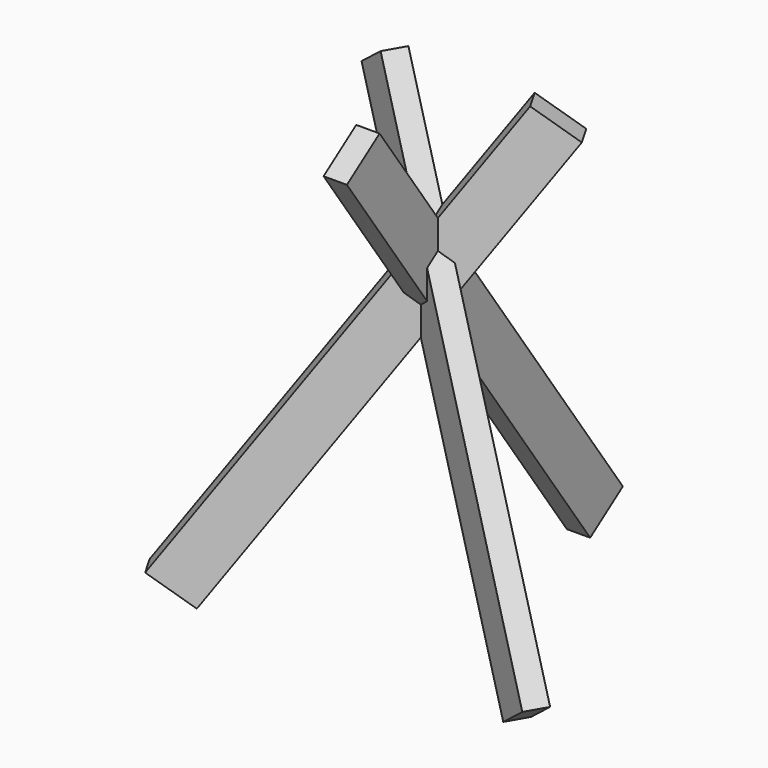
from build123d import *

# Parameters (mm, degrees)
F1_DEPTH = 1000
F2_ANGLE = 35
F3_ANGLE = -35
F4_ANGLE = 35


with BuildPart() as f1:
    # F0 (on Top) → F1 (new body)
    with BuildSketch(Plane.XY):
        Polygon((278, 519.6152422707), (300, 519.6152422707), (322, 519.6152422707), (322, 613.6152422707), (278, 613.6152422707), align=None)
    extrude(amount=F1_DEPTH)


with BuildPart() as f1b:
    # F0 (on Top) → F1, piece 2 (new body)
    with BuildSketch(Plane.XY):
        Polygon((611, 19.0525588833), (600, 0), (589, -19.0525588833), (670.4063879557, -66.0525588833), (692.4063879557, -27.9474411167), align=None)
    extrude(amount=F1_DEPTH)


with BuildPart() as f1c:
    # F0 (on Top) → F1, piece 3 (new body)
    with BuildSketch(Plane.XY):
        Polygon((11, -19.0525588833), (0, 0), (-11, 19.0525588833), (-92.4063879557, -27.9474411167), (-70.4063879557, -66.0525588833), align=None)
    extrude(amount=F1_DEPTH)


with BuildPart() as f1_1:
    # F2: moved
    add(f1.part.rotate(Axis((300, 519.6152422707, 0), (1, 0, 0)), F2_ANGLE))


with BuildPart() as f1c_1:
    # F3: moved
    add(f1c.part.rotate(Axis((0, 0, 0), (0.5, -0.8660254038, 0)), F3_ANGLE))


with BuildPart() as f1b_1:
    # F4: moved
    add(f1b.part.rotate(Axis((600, 0, 0), (-0.5, -0.8660254038, 0)), F4_ANGLE))


solid = Compound([f1_1.part, f1c_1.part, f1b_1.part])
